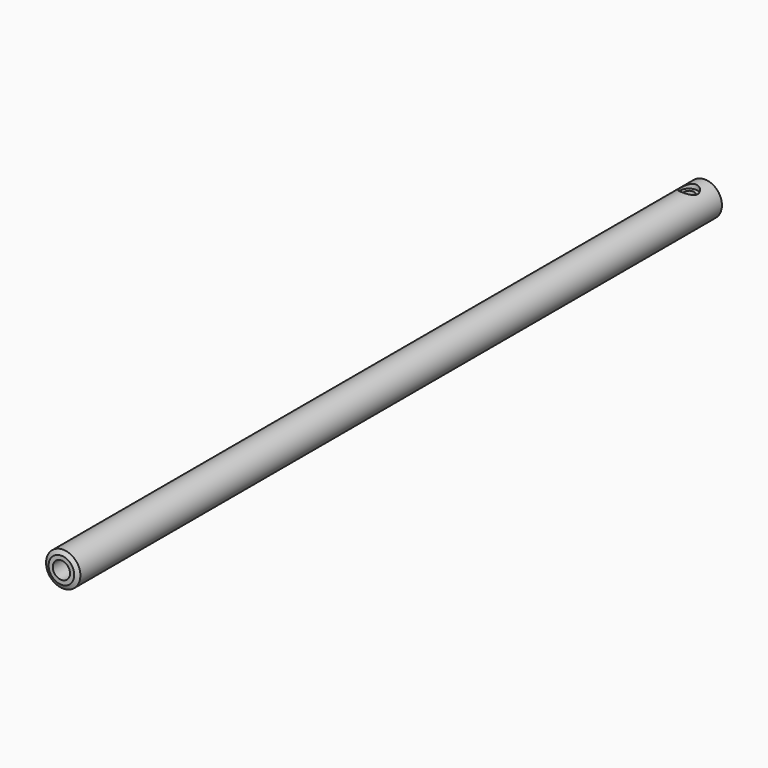
from build123d import *

# Parameters (mm, degrees)
F0_R     = 5.55625
F0_R_2   = 2.794
F1_DEPTH = 260.35
F3_R     = 2.778125
F4_DEPTH = 2.286
F5_R     = 1.5875
F6_DEPTH = 2.286


with BuildPart() as f1:
    # F0 (on Front) → F1 (new body)
    with BuildSketch(Plane.XZ):
        Circle(F0_R)
        Circle(F0_R_2, mode=Mode.SUBTRACT)
    extrude(amount=F1_DEPTH)

    # F3 (on offset) → F4 (cut)
    with BuildSketch(Plane.XY.offset(6.35)):
        with Locations((0, -6.35)):
            Circle(F3_R)
    extrude(amount=-F4_DEPTH, mode=Mode.SUBTRACT)

    # F5 (on face) → F6 (cut)
    with BuildSketch(Plane.XY.offset(4.064)):
        with Locations((0, -6.35)):
            Circle(F5_R)
    extrude(amount=-F6_DEPTH, mode=Mode.SUBTRACT)

    # F7 (on Top) → F8 (revolve, cut)
    with BuildSketch(Plane.XY):
        Polygon((6.375642, -259.197921), (3.892762, -260.484248), (6.375642, -261.022687), align=None)
    revolve(axis=Axis((0, -258.301109, 0), (0, 1, 0)), mode=Mode.SUBTRACT)


solid = f1.part
